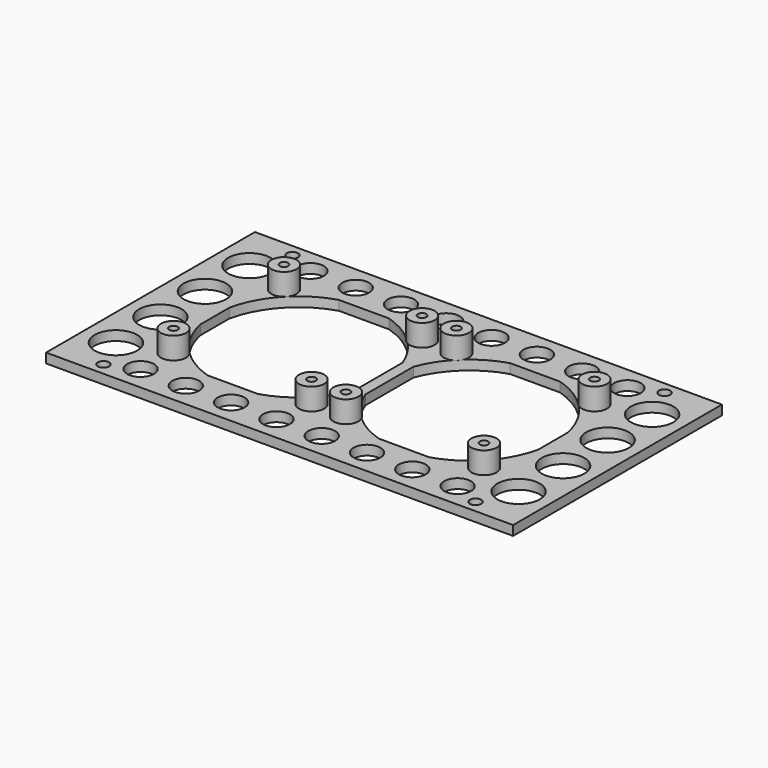
from build123d import *

# Parameters (mm, degrees)
F0_W     = 135.89
F0_H     = 75.946
F0_R     = 1.651
F1_DEPTH = 2.794
F3_R     = 1.2319
F4_DEPTH = 2.795
F5_R     = 3.656552
F5_R_2   = 1.2319
F6_DEPTH = 6.35
F7_R     = 6.19125
F7_R_2   = 3.90525
F8_DEPTH = 9.145


with BuildPart() as f1:
    # F0 (on Top) → F1 (new body)
    with BuildSketch(Plane.XY):
        with Locations((67.945, 37.973)):
            Rectangle(F0_W, F0_H)
        with Locations((13.81125, 3.6068)):
            Circle(F0_R, mode=Mode.SUBTRACT)
        with Locations((122.07875, 3.6068)):
            Circle(F0_R, mode=Mode.SUBTRACT)
        with BuildLine():
            ThreePointArc((100.087966, 61.7855), (111.135553, 54.848267), (117.1575, 43.276296))
            Line((117.1575, 43.276296), (117.1575, 32.669704))
            ThreePointArc((117.1575, 32.669704), (111.135553, 21.097733), (100.087966, 14.1605))
            Line((100.087966, 14.1605), (85.586034, 14.1605))
            ThreePointArc((85.586034, 14.1605), (75.803192, 19.821938), (69.5325, 29.225889))
            Line((69.5325, 29.225889), (69.5325, 46.720111))
            ThreePointArc((69.5325, 46.720111), (75.803192, 56.124062), (85.586034, 61.7855))
            Line((85.586034, 61.7855), (100.087966, 61.7855))
        make_face(mode=Mode.SUBTRACT)
        with BuildLine():
            ThreePointArc((18.7325, 43.276296), (24.754447, 54.848267), (35.802034, 61.7855))
            Line((35.802034, 61.7855), (50.303966, 61.7855))
            ThreePointArc((50.303966, 61.7855), (60.086808, 56.124062), (66.3575, 46.720111))
            Line((66.3575, 46.720111), (66.3575, 29.225889))
            ThreePointArc((66.3575, 29.225889), (60.086808, 19.821938), (50.303966, 14.1605))
            Line((50.303966, 14.1605), (35.802034, 14.1605))
            ThreePointArc((35.802034, 14.1605), (24.754447, 21.097733), (18.7325, 32.669704))
            Line((18.7325, 32.669704), (18.7325, 43.276296))
        make_face(mode=Mode.SUBTRACT)
        with Locations((13.81125, 72.3392)):
            Circle(F0_R, mode=Mode.SUBTRACT)
        with Locations((122.07875, 72.3392)):
            Circle(F0_R, mode=Mode.SUBTRACT)
    extrude(amount=F1_DEPTH)

    # F3 (on face) → F4 (cut, through all)
    with BuildSketch(Plane.XY.offset(2.794)):
        with Locations((22.7711, 58.0644)):
            Circle(F3_R)
        with Locations((62.9539, 58.0644)):
            Circle(F3_R)
        with Locations((72.9361, 58.0644)):
            Circle(F3_R)
        with Locations((113.1189, 58.0644)):
            Circle(F3_R)
        with Locations((113.1189, 17.8816)):
            Circle(F3_R)
        with Locations((72.9361, 17.8816)):
            Circle(F3_R)
        with Locations((62.9539, 17.8816)):
            Circle(F3_R)
        with Locations((22.7711, 17.8816)):
            Circle(F3_R)
    extrude(amount=-F4_DEPTH, mode=Mode.SUBTRACT)

    # F5 (on face) → F6 (join)
    with BuildSketch(Plane.XY.offset(2.794)):
        with Locations((22.7711, 58.0644)):
            Circle(F5_R)
        with Locations((22.7711, 58.0644)):
            Circle(F5_R_2, mode=Mode.SUBTRACT)
        with Locations((62.9539, 58.0644)):
            Circle(F5_R)
        with Locations((62.9539, 58.0644)):
            Circle(F5_R_2, mode=Mode.SUBTRACT)
        with Locations((72.9361, 58.0644)):
            Circle(F5_R)
        with Locations((72.9361, 58.0644)):
            Circle(F5_R_2, mode=Mode.SUBTRACT)
        with Locations((113.1189, 58.0644)):
            Circle(F5_R)
        with Locations((113.1189, 58.0644)):
            Circle(F5_R_2, mode=Mode.SUBTRACT)
        with Locations((113.1189, 17.8816)):
            Circle(F5_R)
        with Locations((113.1189, 17.8816)):
            Circle(F5_R_2, mode=Mode.SUBTRACT)
        with Locations((72.9361, 17.8816)):
            Circle(F5_R)
        with Locations((72.9361, 17.8816)):
            Circle(F5_R_2, mode=Mode.SUBTRACT)
        with Locations((62.9539, 17.8816)):
            Circle(F5_R)
        with Locations((62.9539, 17.8816)):
            Circle(F5_R_2, mode=Mode.SUBTRACT)
        with Locations((22.7711, 17.8816)):
            Circle(F5_R)
        with Locations((22.7711, 17.8816)):
            Circle(F5_R_2, mode=Mode.SUBTRACT)
    extrude(amount=F6_DEPTH)

    # F7 (on face) → F8 (cut, through all)
    with BuildSketch(Plane(origin=(0, 0, 0), x_dir=(1, 0, 0), z_dir=(0, 0, -1))):
        with Locations((9.36625, -62.258438)):
            Circle(F7_R)
        with Locations((9.36625, -46.068146)):
            Circle(F7_R)
        with Locations((21.82186, -68.86575)):
            Circle(F7_R_2)
        with Locations((34.9999, -68.86575)):
            Circle(F7_R_2)
        with Locations((48.17794, -68.86575)):
            Circle(F7_R_2)
        with Locations((61.35598, -68.86575)):
            Circle(F7_R_2)
        with Locations((126.52375, -46.068146)):
            Circle(F7_R)
        with Locations((126.52375, -62.258438)):
            Circle(F7_R)
        with Locations((74.53402, -68.86575)):
            Circle(F7_R_2)
        with Locations((87.71206, -68.86575)):
            Circle(F7_R_2)
        with Locations((100.8901, -68.86575)):
            Circle(F7_R_2)
        with Locations((114.06814, -68.86575)):
            Circle(F7_R_2)
        with Locations((126.52375, -29.877854)):
            Circle(F7_R)
        with Locations((126.52375, -13.687562)):
            Circle(F7_R)
        with Locations((114.06814, -7.08025)):
            Circle(F7_R_2)
        with Locations((100.8901, -7.08025)):
            Circle(F7_R_2)
        with Locations((87.71206, -7.08025)):
            Circle(F7_R_2)
        with Locations((74.53402, -7.08025)):
            Circle(F7_R_2)
        with Locations((61.35598, -7.08025)):
            Circle(F7_R_2)
        with Locations((48.17794, -7.08025)):
            Circle(F7_R_2)
        with Locations((34.9999, -7.08025)):
            Circle(F7_R_2)
        with Locations((21.82186, -7.08025)):
            Circle(F7_R_2)
        with Locations((9.36625, -13.687562)):
            Circle(F7_R)
        with Locations((9.36625, -29.877854)):
            Circle(F7_R)
    extrude(amount=-F8_DEPTH, mode=Mode.SUBTRACT)


solid = f1.part
